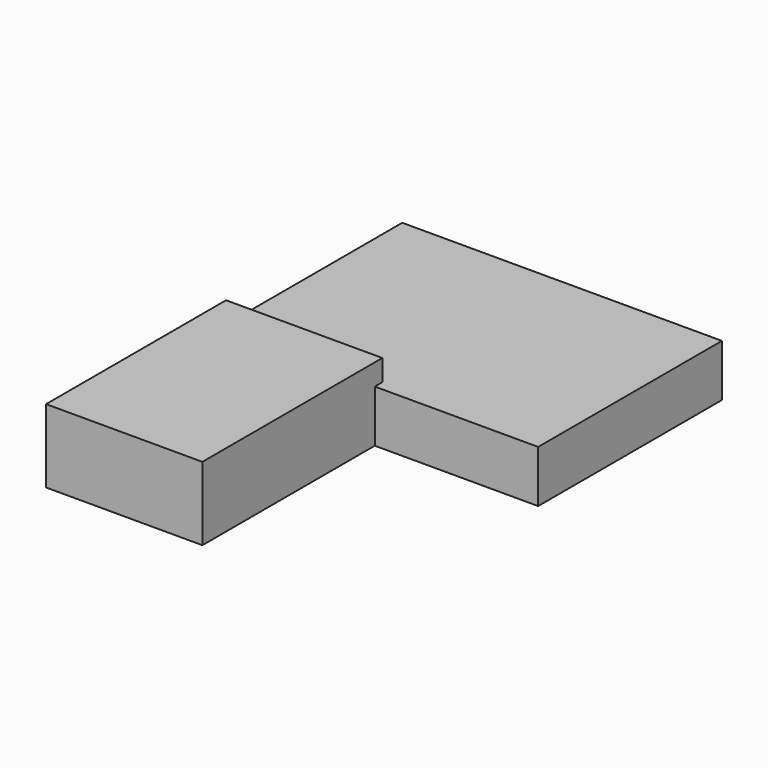
from build123d import *

# Parameters (mm, degrees)
BOX009_W     = 66
BOX009_H     = 95
BOX009_DEPTH = 31
BOX008_W     = 135
BOX008_H     = 97
BOX008_DEPTH = 22


with BuildPart() as cube002:
    # Box009 → Box009 (new body)
    with BuildSketch(Plane(origin=(1, -28, 0), x_dir=(1, 0, 0), z_dir=(0, 0, 1))):
        with Locations((33, 47.5)):
            Rectangle(BOX009_W, BOX009_H)
    extrude(amount=BOX009_DEPTH)


with BuildPart() as fusion006:
    # Box008 → Box008 (new body)
    with BuildSketch(Plane(origin=(1, 63, 0), x_dir=(1, 0, 0), z_dir=(0, 0, 1))):
        with Locations((67.5, 48.5)):
            Rectangle(BOX008_W, BOX008_H)
    extrude(amount=BOX008_DEPTH)

    # Fusion006: union Cube002
    add(cube002.part)


solid = fusion006.part
